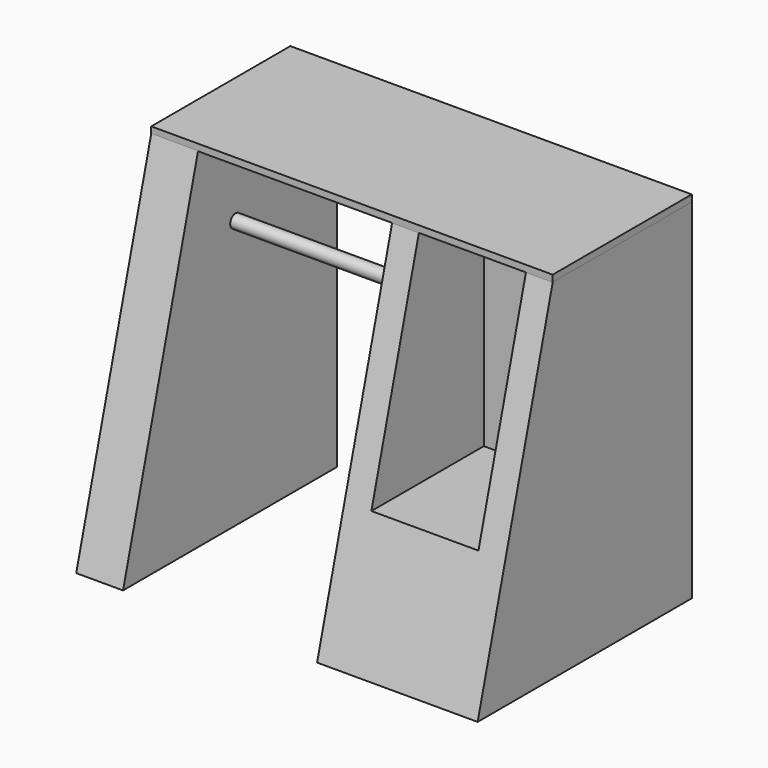
from build123d import *

# Parameters (mm, degrees)
F1_DEPTH  = 24
F4_DEPTH  = 8
F7_DEPTH  = 7
F8_R      = 1
F9_DEPTH  = 29
F12_DEPTH = 1


with BuildPart() as f1:
    # F0 (on Right) → F1 (new body)
    with BuildSketch(Plane.YZ):
        Polygon((12.5575875863, -22.7309510559), (12.5575875863, 29.4180095303), (-13.4250692352, 29.4180095303), (-27.4424124137, -22.7309510559), align=None)
    extrude(amount=F1_DEPTH)

    # F3 (on offset) → F4 (cut, symmetric)
    with BuildSketch(Plane.YZ.offset(12)):
        Polygon((-1.2952810225, 29.4180095303), (-13.4250692352, 29.4180095303), (-22.2952810225, -3.5819904697), (-1.2952810225, -3.5819904697), align=None)
    extrude(amount=F4_DEPTH, both=True, mode=Mode.SUBTRACT)


with BuildPart() as f7:
    # F6 (on offset) → F7 (new body)
    with BuildSketch(Plane.YZ.offset(-29)):
        Polygon((12.558, -22.6680714388), (12.558, 29.481), (-13.4250692352, 29.481), (-27.442, -22.6680714388), (-27.4255107312, -22.6680714388), align=None)
    extrude(amount=-F7_DEPTH)


with BuildPart() as f9:
    # F8 (on face) → F9 (new body, through all)
    with BuildSketch(Plane(origin=(0, 0, 0), x_dir=(0, -1, 0), z_dir=(-1, 0, 0))):
        with Locations((6.4250692352, 17.4180095303)):
            Circle(F8_R)
    extrude(amount=F9_DEPTH)


with BuildPart() as f12:
    # F11 (on offset) → F12 (new body)
    with BuildSketch(Plane.XY.offset(29.4180095303)):
        Polygon((0, 12.5575875863), (-36, 12.5575875863), (-36, -13.4250692352), (20, -13.4250692352), (24, -13.4250692352), (24, 12.5575875863), align=None)
    extrude(amount=F12_DEPTH)


solid = Compound([f1.part, f7.part, f9.part, f12.part])
